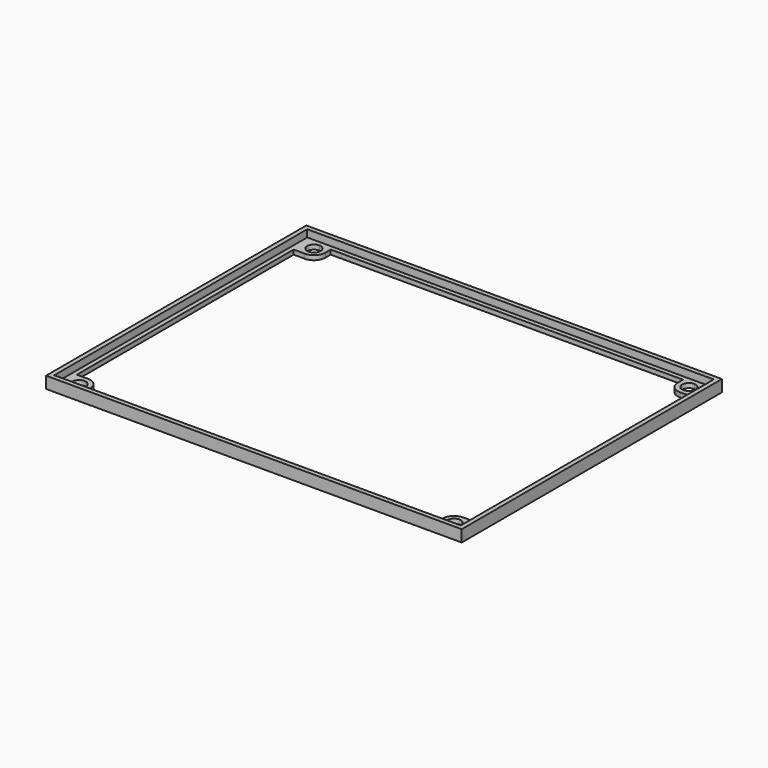
from build123d import *

# Parameters (mm, degrees)
F0_W     = 92
F0_H     = 72
F1_DEPTH = 1
F2_W     = 92
F2_H     = 72
F2_W_2   = 90
F2_H_2   = 70
F3_DEPTH = 1.6


with BuildPart() as f1:
    # F0 (on Top) → F1 (new body)
    with BuildSketch(Plane.XY):
        Rectangle(F0_W, F0_H)
        Polygon((-41.5, 34), (-39, 34), (39, 34), (41.5, 34), (44, 34), (44, 30), (44, -30), (44, -34), (41.5, -34), (39, -34), (-39, -34), (-41.5, -34), (-44, -34), (-44, -30), (-44, 30), (-44, 34), align=None, mode=Mode.SUBTRACT)
        with BuildLine():
            Line((41.5, 34), (39, 34))
            Line((39, 34), (39, 32.5))
            ThreePointArc((39, 32.5), (39.732233, 30.732233), (41.5, 30))
            Line((41.5, 30), (44, 30))
            Line((44, 30), (44, 34))
            Line((44, 34), (41.5, 34))
        make_face()
        with BuildLine():
            ThreePointArc((43, 32.5), (40.43934, 31.43934), (41.5, 34))
            ThreePointArc((41.5, 34), (42.56066, 33.56066), (43, 32.5))
        make_face(mode=Mode.SUBTRACT)
        with BuildLine():
            Line((44, -34), (44, -30))
            Line((44, -30), (41.5, -30))
            ThreePointArc((41.5, -30), (39.732233, -30.732233), (39, -32.5))
            Line((39, -32.5), (39, -34))
            Line((39, -34), (41.5, -34))
            Line((41.5, -34), (44, -34))
        make_face()
        with BuildLine():
            ThreePointArc((43, -32.5), (42.56066, -33.56066), (41.5, -34))
            ThreePointArc((41.5, -34), (40.43934, -31.43934), (43, -32.5))
        make_face(mode=Mode.SUBTRACT)
        with BuildLine():
            Line((-41.5, -30), (-44, -30))
            Line((-44, -30), (-44, -34))
            Line((-44, -34), (-41.5, -34))
            Line((-41.5, -34), (-39, -34))
            Line((-39, -34), (-39, -32.5))
            ThreePointArc((-39, -32.5), (-39.732233, -30.732233), (-41.5, -30))
        make_face()
        with BuildLine():
            ThreePointArc((-40, -32.5), (-40.43934, -33.56066), (-41.5, -34))
            ThreePointArc((-41.5, -34), (-42.56066, -31.43934), (-40, -32.5))
        make_face(mode=Mode.SUBTRACT)
        with BuildLine():
            Line((-39, 32.5), (-39, 34))
            Line((-39, 34), (-41.5, 34))
            Line((-41.5, 34), (-44, 34))
            Line((-44, 34), (-44, 30))
            Line((-44, 30), (-41.5, 30))
            ThreePointArc((-41.5, 30), (-39.732233, 30.732233), (-39, 32.5))
        make_face()
        with BuildLine():
            ThreePointArc((-40, 32.5), (-42.56066, 31.43934), (-41.5, 34))
            ThreePointArc((-41.5, 34), (-40.43934, 33.56066), (-40, 32.5))
        make_face(mode=Mode.SUBTRACT)
    extrude(amount=F1_DEPTH)

    # F2 (on face) → F3 (join)
    with BuildSketch(Plane.XY.offset(1)):
        Rectangle(F2_W, F2_H)
        Rectangle(F2_W_2, F2_H_2, mode=Mode.SUBTRACT)
    extrude(amount=F3_DEPTH)


solid = f1.part
